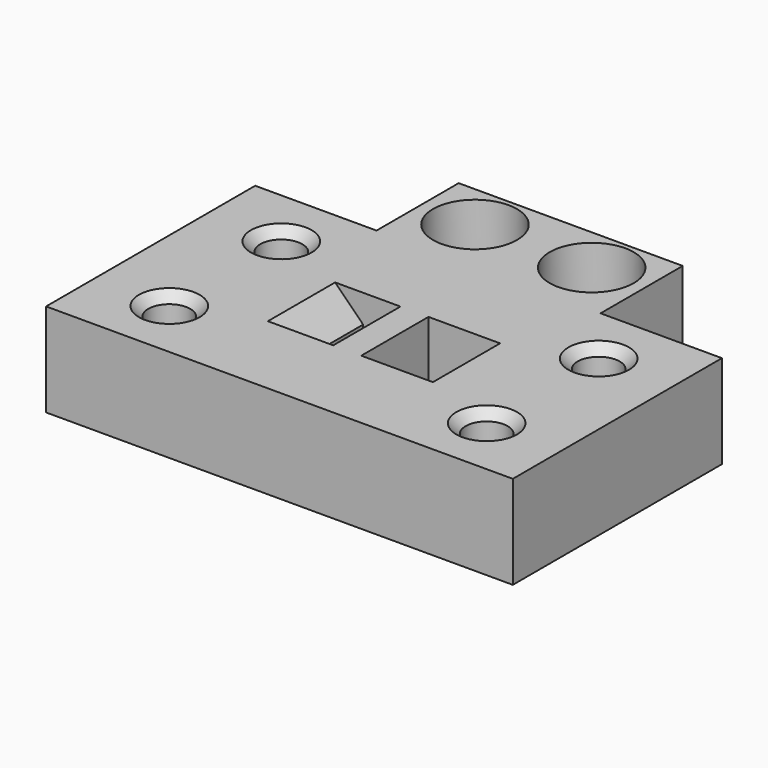
from build123d import *

# Parameters (mm, degrees)
PAD_DEPTH        = 10
HOLE_D           = 5.5
HOLE_CBORE_D     = 9
HOLE_CBORE_DEPTH = 5
POCKET_DEPTH     = 9
SKETCH004_R      = 2.25
HOLE001_DEPTH    = 10.001
CHAMFER_SIZE     = 1
PAD001_DEPTH     = 2.75


with BuildPart() as part:
    # Sketch → Pad (new body)
    with BuildSketch(Plane.XY):
        Polygon((0, 0), (24, 0), (24, -11), (37, -11), (37, -39), (-13, -39), (-13, -11), (0, -11), align=None)
    extrude(amount=PAD_DEPTH)

    # Hole (through all)
    with Locations(Plane.XY.offset(10)):
        with Locations((5.75, -5), (18.25, -5)):
            CounterBoreHole(HOLE_D / 2, HOLE_CBORE_D / 2, HOLE_CBORE_DEPTH)

    # Sketch003 (on Face6 of Hole) → Pocket (cut)
    with BuildSketch(Plane(origin=(0, -20.5, 0), x_dir=(-1, 0, 0), z_dir=(0, 1, 0))):
        Polygon((-3.163025, 0), (-6.163025, 3), (-6.163025, 7), (-3.163025, 10), (-10.163025, 10), (-10.163025, 0), align=None)
        Polygon((-20.836975, 10), (-13.163025, 10), (-13.163025, 0), (-20.836975, 0), (-17.836975, 3), (-17.836975, 7), align=None)
    extrude(amount=-POCKET_DEPTH, mode=Mode.SUBTRACT)

    # Sketch004 (on Face5 of Pocket) → Hole001 (cut, through all)
    with BuildSketch(Plane.XY.offset(10)):
        with Locations((-5, -17.5)):
            Circle(SKETCH004_R)
        with Locations((-5, -32.5)):
            Circle(SKETCH004_R)
        with Locations((29, -32.5)):
            Circle(SKETCH004_R)
        with Locations((29, -17.5)):
            Circle(SKETCH004_R)
    extrude(amount=-HOLE001_DEPTH, mode=Mode.SUBTRACT)

    # Chamfer
    chamfer_edges = [part.edges().sort_by_distance(p)[0] for p in [
        (-7.25, -17.5, 10),
        (-7.25, -32.5, 10),
        (26.75, -17.5, 10),
        (26.75, -32.5, 10),
    ]]
    chamfer(chamfer_edges, length=CHAMFER_SIZE)

    # Sketch005 → Pad001 (join, symmetric)
    with BuildSketch(Plane.XZ.offset(25)):
        Polygon((-0.836975, -4), (-5.836975, -4), (-5.836975, 0), (3.163025, 0), align=None)
        Polygon((20.836975, 0), (24.836975, -4), (29.836975, -4), (29.836975, 0), align=None)
    extrude(amount=PAD001_DEPTH, both=True)


solid = part.part
